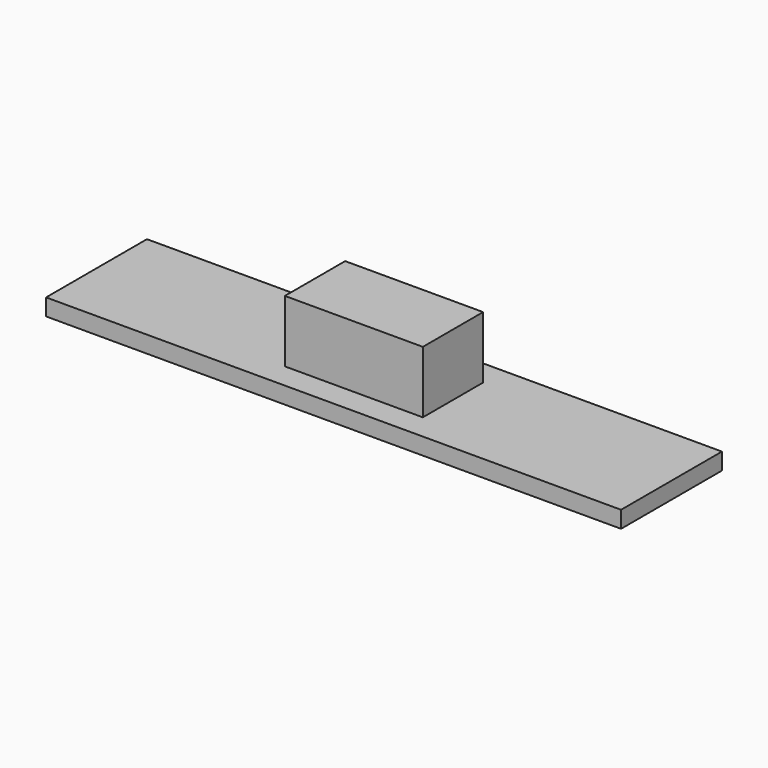
from build123d import *

# Parameters (mm, degrees)
F0_W     = 47.997802
F0_H     = 26.209324
F1_DEPTH = 21.59
F0_W_2   = 200.050026
F0_H_2   = 43.864786
F2_DEPTH = 5.838724


with BuildPart() as f1:
    # F0 (on Top) → F1 (new body)
    with BuildSketch(Plane.XY):
        Rectangle(F0_W, F0_H)
    extrude(amount=F1_DEPTH)


with BuildPart() as f2:
    # F0 (on Top) → F2 (new body)
    with BuildSketch(Plane.XY):
        Rectangle(F0_W_2, F0_H_2)
        Rectangle(F0_W, F0_H, mode=Mode.SUBTRACT)
    extrude(amount=-F2_DEPTH)


solid = Compound([f1.part, f2.part])
